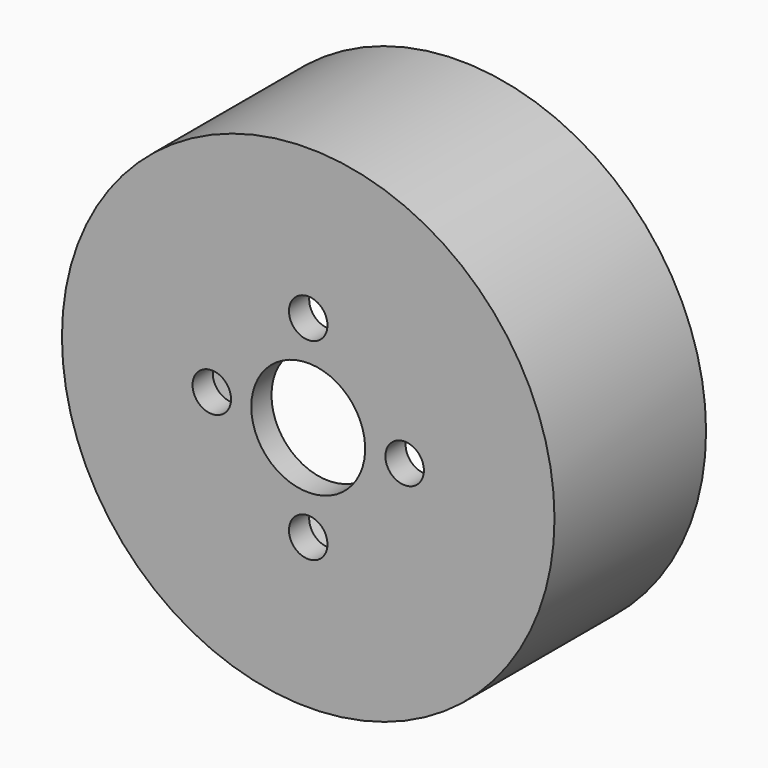
from build123d import *

# Parameters (mm, degrees)
F0_R     = 19.5
F1_DEPTH = 15
F2_R     = 18.5
F3_DEPTH = 13
F4_R     = 4.5085
F4_R_2   = 1.524
F5_DEPTH = 2.001


with BuildPart() as f1:
    # F0 (on Front) → F1 (new body)
    with BuildSketch(Plane.XZ):
        Circle(F0_R)
    extrude(amount=F1_DEPTH)

    # F2 (on face) → F3 (cut)
    with BuildSketch(Plane(origin=(0, 0, 0), x_dir=(-1, 0, 0), z_dir=(0, 1, 0))):
        Circle(F2_R)
    extrude(amount=-F3_DEPTH, mode=Mode.SUBTRACT)

    # F4 (on face) → F5 (cut, through all)
    with BuildSketch(Plane(origin=(0, -13, 0), x_dir=(-1, 0, 0), z_dir=(0, 1, 0))):
        Circle(F4_R)
        with Locations((0, 7.63524)):
            Circle(F4_R_2)
        with Locations((-7.63524, 0)):
            Circle(F4_R_2)
        with Locations((0, -7.63524)):
            Circle(F4_R_2)
        with Locations((7.63524, 0)):
            Circle(F4_R_2)
    extrude(amount=-F5_DEPTH, mode=Mode.SUBTRACT)


solid = f1.part
